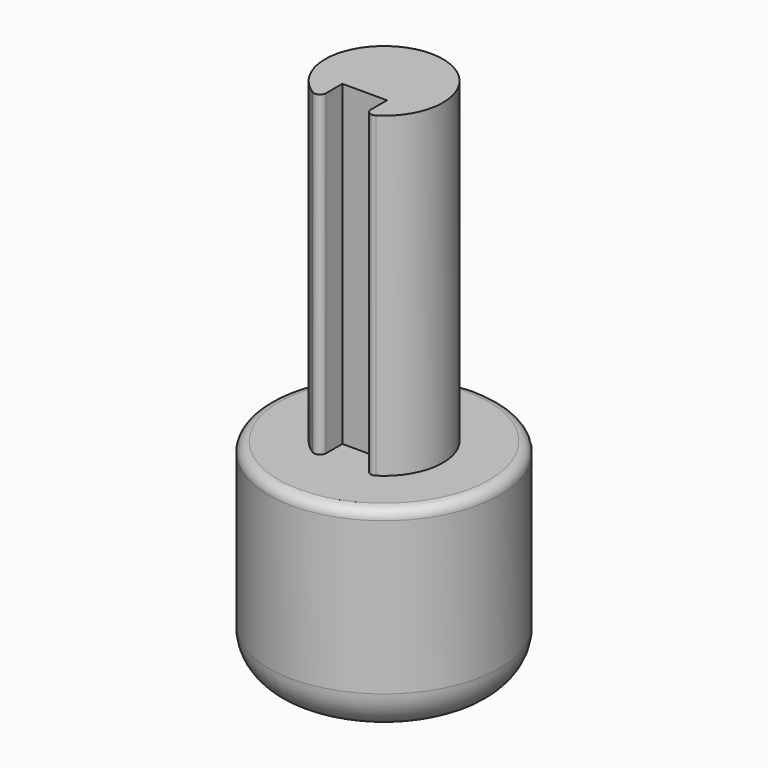
from build123d import *

# Parameters (mm, degrees)
F0_R     = 3.683
F1_DEPTH = 19.812
F2_W     = 2.794
F2_H     = 2.1717
F3_DEPTH = 25.4
F4_R     = 0.381
F5_R     = 7.2136
F6_DEPTH = 12.7
F7_R     = 2.54
F8_R     = 0.635


with BuildPart() as f1:
    # F0 (on Top) → F1 (new body)
    with BuildSketch(Plane.XY):
        Circle(F0_R)
    extrude(amount=F1_DEPTH)

    # F2 (on face) → F3 (cut)
    with BuildSketch(Plane.XY.offset(19.812)):
        with Locations((0, -2.59715)):
            Rectangle(F2_W, F2_H)
    extrude(amount=-F3_DEPTH, mode=Mode.SUBTRACT)

    # F4
    f4_edges = [f1.edges().sort_by_distance(p)[0] for p in [
        (1.397, -3.407768, 9.906),
        (-1.397, -3.407768, 9.906),
    ]]
    fillet(f4_edges, radius=F4_R)

    # F5 (on face) → F6 (join)
    with BuildSketch(Plane(origin=(0, 0, 0), x_dir=(1, 0, 0), z_dir=(0, 0, -1))):
        Circle(F5_R)
    extrude(amount=F6_DEPTH)

    # F7
    f7_edges = [f1.edges().sort_by_distance(p)[0] for p in [
        (-7.2136, 0, -12.7),
    ]]
    fillet(f7_edges, radius=F7_R)

    # F8
    f8_edges = [f1.edges().sort_by_distance(p)[0] for p in [
        (-7.2136, 0, 0),
    ]]
    fillet(f8_edges, radius=F8_R)


solid = f1.part
